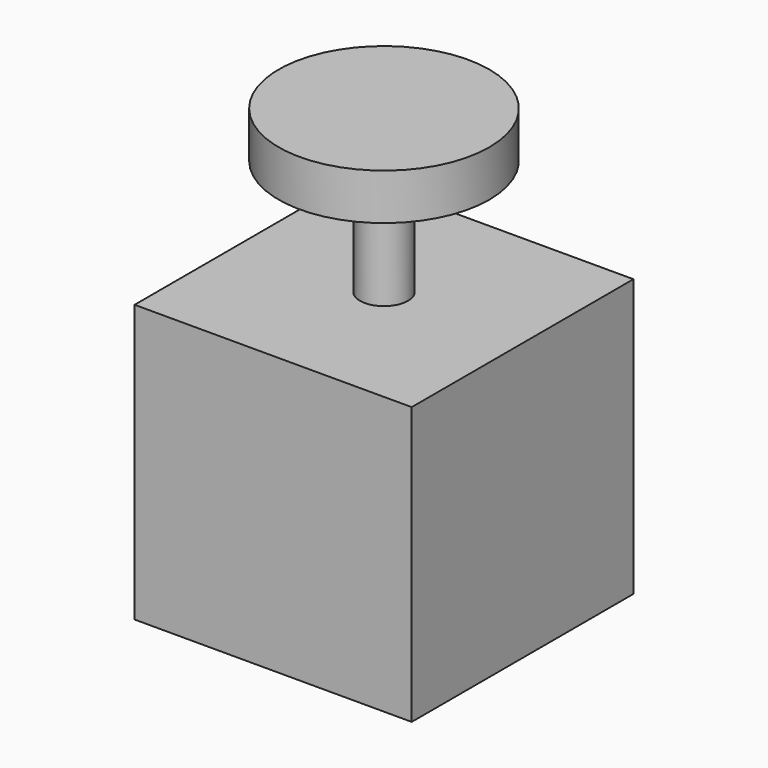
from build123d import *

# Parameters (mm, degrees)
F0_W     = 60
F0_H     = 60
F1_DEPTH = 60
F2_R     = 5.197048
F3_DEPTH = 25
F4_R     = 22.808201
F5_DEPTH = 10


with BuildPart() as f1:
    # F0 (on Top) → F1 (new body)
    with BuildSketch(Plane.XY):
        Rectangle(F0_W, F0_H)
    extrude(amount=F1_DEPTH)

    # F2 (on face) → F3 (join)
    with BuildSketch(Plane.XY.offset(60)):
        Circle(F2_R)
    extrude(amount=F3_DEPTH)

    # F4 (on face) → F5 (join)
    with BuildSketch(Plane.XY.offset(85)):
        Circle(F4_R)
    extrude(amount=F5_DEPTH)


solid = f1.part
